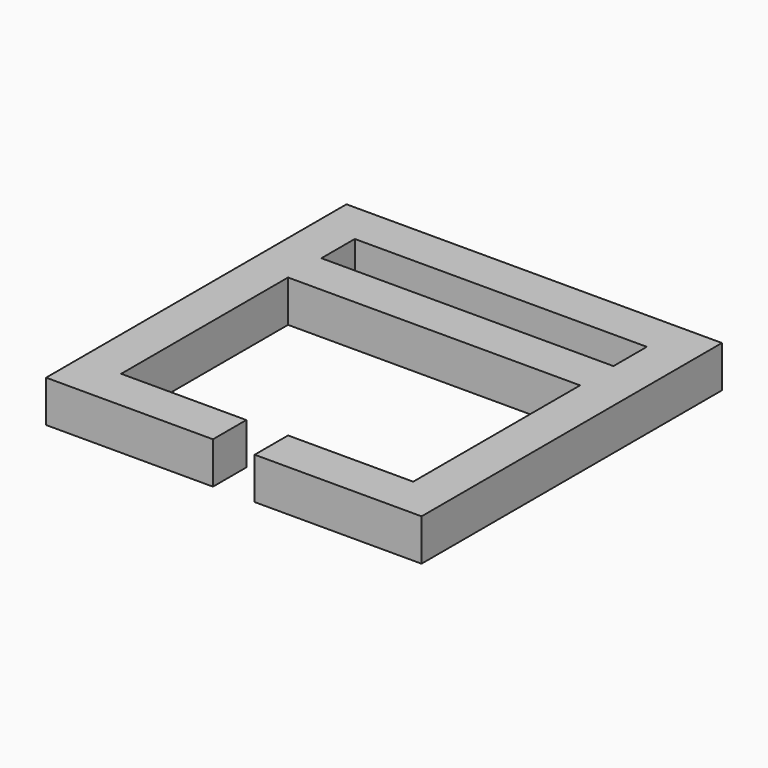
from build123d import *

# Parameters (mm, degrees)
F0_W     = 152.4
F0_H     = 50.8
F0_W_2   = 50.8
F0_H_2   = 254
F0_W_3   = 355.6
F1_DEPTH = 50.8


with BuildPart() as f1:
    # F0 (on Top) → F1 (new body)
    with BuildSketch(Plane.XY):
        with Locations((76.2, -307.5284787178)):
            Rectangle(F0_W, F0_H)
        with Locations((177.8, -307.5284787178)):
            Rectangle(F0_W_2, F0_H)
        with Locations((177.8, -155.1284787178)):
            Rectangle(F0_W_2, F0_H_2)
        with Locations((-127, -307.5284787178)):
            Rectangle(F0_W, F0_H)
        with Locations((-228.6, -307.5284787178)):
            Rectangle(F0_W_2, F0_H)
        with Locations((-228.6, -155.1284787178)):
            Rectangle(F0_W_2, F0_H_2)
        with Locations((-228.6, -2.7284787178)):
            Rectangle(F0_W_2, F0_H)
        with Locations((-25.4, -2.7284787178)):
            Rectangle(F0_W_3, F0_H)
        with Locations((177.8, -2.7284787178)):
            Rectangle(F0_W_2, F0_H)
        with Locations((177.8, 48.0715212822)):
            Rectangle(F0_W_2, F0_H)
        with Locations((177.8, 98.8715212822)):
            Rectangle(F0_W_2, F0_H)
        with Locations((-25.4, 98.8715212822)):
            Rectangle(F0_W_3, F0_H)
        with Locations((-228.6, 98.8715212822)):
            Rectangle(F0_W_2, F0_H)
        with Locations((-228.6, 48.0715212822)):
            Rectangle(F0_W_2, F0_H)
    extrude(amount=F1_DEPTH)


solid = f1.part
